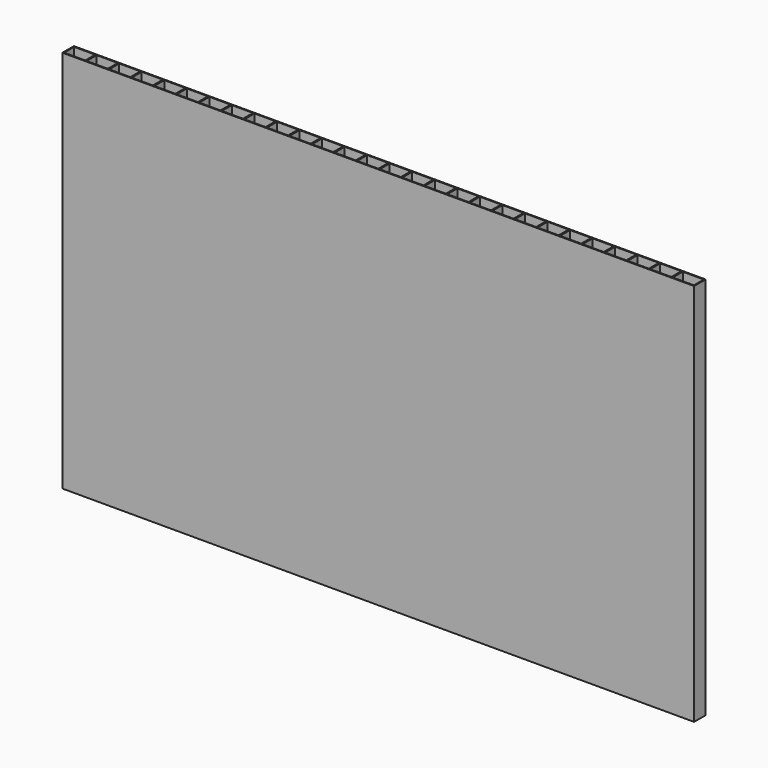
from build123d import *

# Parameters (mm, degrees)
F0_W     = 167.259
F0_H     = 3.81
F0_W_2   = 5.588
F0_H_2   = 3.302
F1_DEPTH = 101.6


with BuildPart() as f1:
    # F0 (on Top) → F1 (new body)
    with BuildSketch(Plane.XY):
        with Locations((84.74498, 1.819537)):
            Rectangle(F0_W, F0_H)
        with Locations((4.16348, 1.819537)):
            Rectangle(F0_W_2, F0_H_2, mode=Mode.SUBTRACT)
        with Locations((10.13248, 1.819537)):
            Rectangle(F0_W_2, F0_H_2, mode=Mode.SUBTRACT)
        with Locations((16.10148, 1.819537)):
            Rectangle(F0_W_2, F0_H_2, mode=Mode.SUBTRACT)
        with Locations((22.07048, 1.819537)):
            Rectangle(F0_W_2, F0_H_2, mode=Mode.SUBTRACT)
        with Locations((28.03948, 1.819537)):
            Rectangle(F0_W_2, F0_H_2, mode=Mode.SUBTRACT)
        with Locations((34.00848, 1.819537)):
            Rectangle(F0_W_2, F0_H_2, mode=Mode.SUBTRACT)
        with Locations((39.97748, 1.819537)):
            Rectangle(F0_W_2, F0_H_2, mode=Mode.SUBTRACT)
        with Locations((45.94648, 1.819537)):
            Rectangle(F0_W_2, F0_H_2, mode=Mode.SUBTRACT)
        with Locations((51.91548, 1.819537)):
            Rectangle(F0_W_2, F0_H_2, mode=Mode.SUBTRACT)
        with Locations((57.88448, 1.819537)):
            Rectangle(F0_W_2, F0_H_2, mode=Mode.SUBTRACT)
        with Locations((63.85348, 1.819537)):
            Rectangle(F0_W_2, F0_H_2, mode=Mode.SUBTRACT)
        with Locations((69.82248, 1.819537)):
            Rectangle(F0_W_2, F0_H_2, mode=Mode.SUBTRACT)
        with Locations((75.79148, 1.819537)):
            Rectangle(F0_W_2, F0_H_2, mode=Mode.SUBTRACT)
        with Locations((81.76048, 1.819537)):
            Rectangle(F0_W_2, F0_H_2, mode=Mode.SUBTRACT)
        with Locations((87.72948, 1.819537)):
            Rectangle(F0_W_2, F0_H_2, mode=Mode.SUBTRACT)
        with Locations((93.69848, 1.819537)):
            Rectangle(F0_W_2, F0_H_2, mode=Mode.SUBTRACT)
        with Locations((99.66748, 1.819537)):
            Rectangle(F0_W_2, F0_H_2, mode=Mode.SUBTRACT)
        with Locations((105.63648, 1.819537)):
            Rectangle(F0_W_2, F0_H_2, mode=Mode.SUBTRACT)
        with Locations((111.60548, 1.819537)):
            Rectangle(F0_W_2, F0_H_2, mode=Mode.SUBTRACT)
        with Locations((117.57448, 1.819537)):
            Rectangle(F0_W_2, F0_H_2, mode=Mode.SUBTRACT)
        with Locations((123.54348, 1.819537)):
            Rectangle(F0_W_2, F0_H_2, mode=Mode.SUBTRACT)
        with Locations((129.51248, 1.819537)):
            Rectangle(F0_W_2, F0_H_2, mode=Mode.SUBTRACT)
        with Locations((135.48148, 1.819537)):
            Rectangle(F0_W_2, F0_H_2, mode=Mode.SUBTRACT)
        with Locations((141.45048, 1.819537)):
            Rectangle(F0_W_2, F0_H_2, mode=Mode.SUBTRACT)
        with Locations((147.41948, 1.819537)):
            Rectangle(F0_W_2, F0_H_2, mode=Mode.SUBTRACT)
        with Locations((153.38848, 1.819537)):
            Rectangle(F0_W_2, F0_H_2, mode=Mode.SUBTRACT)
        with Locations((159.35748, 1.819537)):
            Rectangle(F0_W_2, F0_H_2, mode=Mode.SUBTRACT)
        with Locations((165.32648, 1.819537)):
            Rectangle(F0_W_2, F0_H_2, mode=Mode.SUBTRACT)
    extrude(amount=F1_DEPTH)


solid = f1.part
